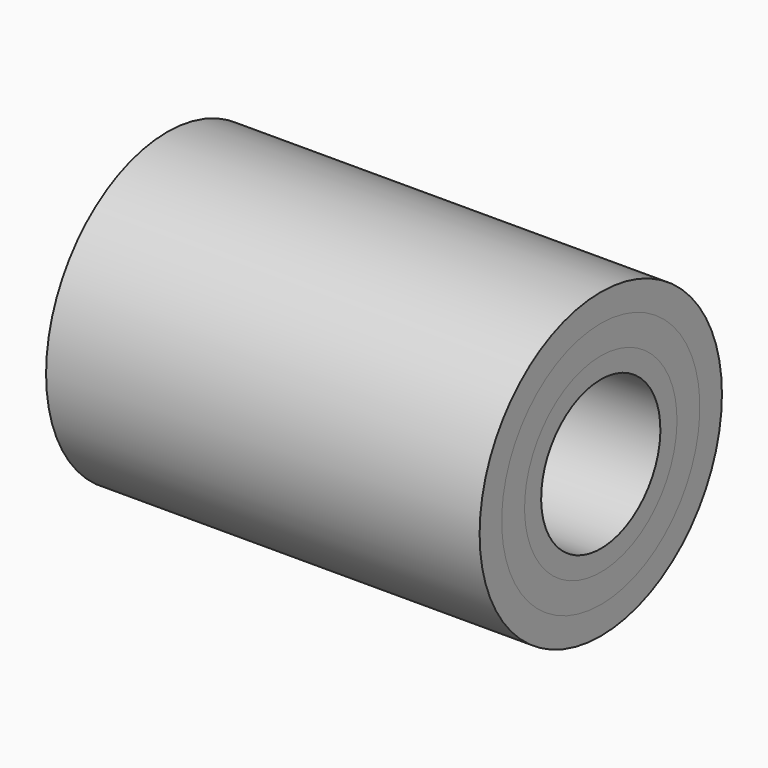
from build123d import *


with BuildPart() as f1:
    # F0 (on Front) → F1 (revolve)
    with BuildSketch(Plane.XZ):
        with BuildLine():
            ThreePointArc((-92.686176, 52.399324), (-99.728853, 57.150293), (-106.771529, 52.399324))
            Line((-106.771529, 52.399324), (-106.771529, 35.688013))
            ThreePointArc((-106.771529, 35.688013), (-99.728853, 40.438981), (-92.686176, 35.688013))
            ThreePointArc((-92.686176, 35.688013), (-85.6435, 30.937044), (-78.600824, 35.688013))
            ThreePointArc((-78.600824, 35.688013), (-71.558148, 40.438981), (-64.515471, 35.688013))
            ThreePointArc((-64.515471, 35.688013), (-57.472795, 30.937044), (-50.430119, 35.688013))
            ThreePointArc((-50.430119, 35.688013), (-43.387443, 40.438981), (-36.344767, 35.688013))
            ThreePointArc((-36.344767, 35.688013), (-29.30209, 30.937044), (-22.259414, 35.688013))
            ThreePointArc((-22.259414, 35.688013), (-15.216738, 40.438981), (-8.174062, 35.688013))
            ThreePointArc((-8.174062, 35.688013), (-1.131386, 30.937044), (5.911291, 35.688013))
            ThreePointArc((5.911291, 35.688013), (12.953967, 40.438981), (19.996643, 35.688013))
            ThreePointArc((19.996643, 35.688013), (27.039319, 30.937044), (34.081995, 35.688013))
            ThreePointArc((34.081995, 35.688013), (41.124672, 40.438981), (48.167348, 35.688013))
            ThreePointArc((48.167348, 35.688013), (55.210024, 30.937044), (62.2527, 35.688013))
            ThreePointArc((62.2527, 35.688013), (69.295377, 40.438981), (76.338053, 35.688013))
            ThreePointArc((76.338053, 35.688013), (83.380729, 30.937044), (90.423405, 35.688013))
            ThreePointArc((90.423405, 35.688013), (97.466081, 40.438981), (104.508758, 35.688013))
            ThreePointArc((104.508758, 35.688013), (111.551434, 30.937044), (118.59411, 35.688013))
            ThreePointArc((118.59411, 35.688013), (125.636786, 40.438981), (132.679462, 35.688013))
            ThreePointArc((132.679462, 35.688013), (139.722139, 30.937044), (146.764815, 35.688013))
            Line((146.764815, 35.688013), (146.764815, 52.399324))
            ThreePointArc((146.764815, 52.399324), (139.722139, 47.648355), (132.679462, 52.399324))
            ThreePointArc((132.679462, 52.399324), (125.636786, 57.150293), (118.59411, 52.399324))
            ThreePointArc((118.59411, 52.399324), (111.551434, 47.648355), (104.508758, 52.399324))
            ThreePointArc((104.508758, 52.399324), (97.466081, 57.150293), (90.423405, 52.399324))
            ThreePointArc((90.423405, 52.399324), (83.380729, 47.648355), (76.338053, 52.399324))
            ThreePointArc((76.338053, 52.399324), (69.295377, 57.150293), (62.2527, 52.399324))
            ThreePointArc((62.2527, 52.399324), (55.210024, 47.648355), (48.167348, 52.399324))
            ThreePointArc((48.167348, 52.399324), (41.124672, 57.150293), (34.081995, 52.399324))
            ThreePointArc((34.081995, 52.399324), (27.039319, 47.648355), (19.996643, 52.399324))
            ThreePointArc((19.996643, 52.399324), (12.953967, 57.150293), (5.911291, 52.399324))
            ThreePointArc((5.911291, 52.399324), (-1.131386, 47.648355), (-8.174062, 52.399324))
            ThreePointArc((-8.174062, 52.399324), (-15.216738, 57.150293), (-22.259414, 52.399324))
            ThreePointArc((-22.259414, 52.399324), (-29.30209, 47.648355), (-36.344767, 52.399324))
            ThreePointArc((-36.344767, 52.399324), (-43.387443, 57.150293), (-50.430119, 52.399324))
            ThreePointArc((-50.430119, 52.399324), (-57.472795, 47.648355), (-64.515471, 52.399324))
            ThreePointArc((-64.515471, 52.399324), (-71.558148, 57.150293), (-78.600824, 52.399324))
            ThreePointArc((-78.600824, 52.399324), (-85.6435, 47.648355), (-92.686176, 52.399324))
        make_face()
    revolve(axis=Axis((29.789105, 0, -20.020923), (1, 0, 0)))


with BuildPart() as f2:
    # F0 (on Front) → F2 (revolve)
    with BuildSketch(Plane.XZ):
        with BuildLine():
            ThreePointArc((-92.686176, 35.688013), (-99.728853, 40.438981), (-106.771529, 35.688013))
            Line((-106.771529, 35.688013), (-106.771529, 23.559572))
            Line((-106.771529, 23.559572), (146.764815, 23.559572))
            Line((146.764815, 23.559572), (146.764815, 35.688013))
            ThreePointArc((146.764815, 35.688013), (139.722139, 30.937044), (132.679462, 35.688013))
            ThreePointArc((132.679462, 35.688013), (125.636786, 40.438981), (118.59411, 35.688013))
            ThreePointArc((118.59411, 35.688013), (111.551434, 30.937044), (104.508758, 35.688013))
            ThreePointArc((104.508758, 35.688013), (97.466081, 40.438981), (90.423405, 35.688013))
            ThreePointArc((90.423405, 35.688013), (83.380729, 30.937044), (76.338053, 35.688013))
            ThreePointArc((76.338053, 35.688013), (69.295377, 40.438981), (62.2527, 35.688013))
            ThreePointArc((62.2527, 35.688013), (55.210024, 30.937044), (48.167348, 35.688013))
            ThreePointArc((48.167348, 35.688013), (41.124672, 40.438981), (34.081995, 35.688013))
            ThreePointArc((34.081995, 35.688013), (27.039319, 30.937044), (19.996643, 35.688013))
            ThreePointArc((19.996643, 35.688013), (12.953967, 40.438981), (5.911291, 35.688013))
            ThreePointArc((5.911291, 35.688013), (-1.131386, 30.937044), (-8.174062, 35.688013))
            ThreePointArc((-8.174062, 35.688013), (-15.216738, 40.438981), (-22.259414, 35.688013))
            ThreePointArc((-22.259414, 35.688013), (-29.30209, 30.937044), (-36.344767, 35.688013))
            ThreePointArc((-36.344767, 35.688013), (-43.387443, 40.438981), (-50.430119, 35.688013))
            ThreePointArc((-50.430119, 35.688013), (-57.472795, 30.937044), (-64.515471, 35.688013))
            ThreePointArc((-64.515471, 35.688013), (-71.558148, 40.438981), (-78.600824, 35.688013))
            ThreePointArc((-78.600824, 35.688013), (-85.6435, 30.937044), (-92.686176, 35.688013))
        make_face()
    revolve(axis=Axis((29.789105, 0, -20.020923), (1, 0, 0)))


with BuildPart() as f3:
    # F0 (on Front) → F3 (revolve)
    with BuildSketch(Plane.XZ):
        with BuildLine():
            Line((146.764815, 68.546347), (-106.771529, 68.546347))
            Line((-106.771529, 68.546347), (-106.771529, 52.399324))
            ThreePointArc((-106.771529, 52.399324), (-99.728853, 57.150293), (-92.686176, 52.399324))
            ThreePointArc((-92.686176, 52.399324), (-85.6435, 47.648355), (-78.600824, 52.399324))
            ThreePointArc((-78.600824, 52.399324), (-71.558148, 57.150293), (-64.515471, 52.399324))
            ThreePointArc((-64.515471, 52.399324), (-57.472795, 47.648355), (-50.430119, 52.399324))
            ThreePointArc((-50.430119, 52.399324), (-43.387443, 57.150293), (-36.344767, 52.399324))
            ThreePointArc((-36.344767, 52.399324), (-29.30209, 47.648355), (-22.259414, 52.399324))
            ThreePointArc((-22.259414, 52.399324), (-15.216738, 57.150293), (-8.174062, 52.399324))
            ThreePointArc((-8.174062, 52.399324), (-1.131386, 47.648355), (5.911291, 52.399324))
            ThreePointArc((5.911291, 52.399324), (12.953967, 57.150293), (19.996643, 52.399324))
            ThreePointArc((19.996643, 52.399324), (27.039319, 47.648355), (34.081995, 52.399324))
            ThreePointArc((34.081995, 52.399324), (41.124672, 57.150293), (48.167348, 52.399324))
            ThreePointArc((48.167348, 52.399324), (55.210024, 47.648355), (62.2527, 52.399324))
            ThreePointArc((62.2527, 52.399324), (69.295377, 57.150293), (76.338053, 52.399324))
            ThreePointArc((76.338053, 52.399324), (83.380729, 47.648355), (90.423405, 52.399324))
            ThreePointArc((90.423405, 52.399324), (97.466081, 57.150293), (104.508758, 52.399324))
            ThreePointArc((104.508758, 52.399324), (111.551434, 47.648355), (118.59411, 52.399324))
            ThreePointArc((118.59411, 52.399324), (125.636786, 57.150293), (132.679462, 52.399324))
            ThreePointArc((132.679462, 52.399324), (139.722139, 47.648355), (146.764815, 52.399324))
            Line((146.764815, 52.399324), (146.764815, 68.546347))
        make_face()
    revolve(axis=Axis((29.789105, 0, -20.020923), (1, 0, 0)))


solid = Compound([f1.part, f2.part, f3.part])
